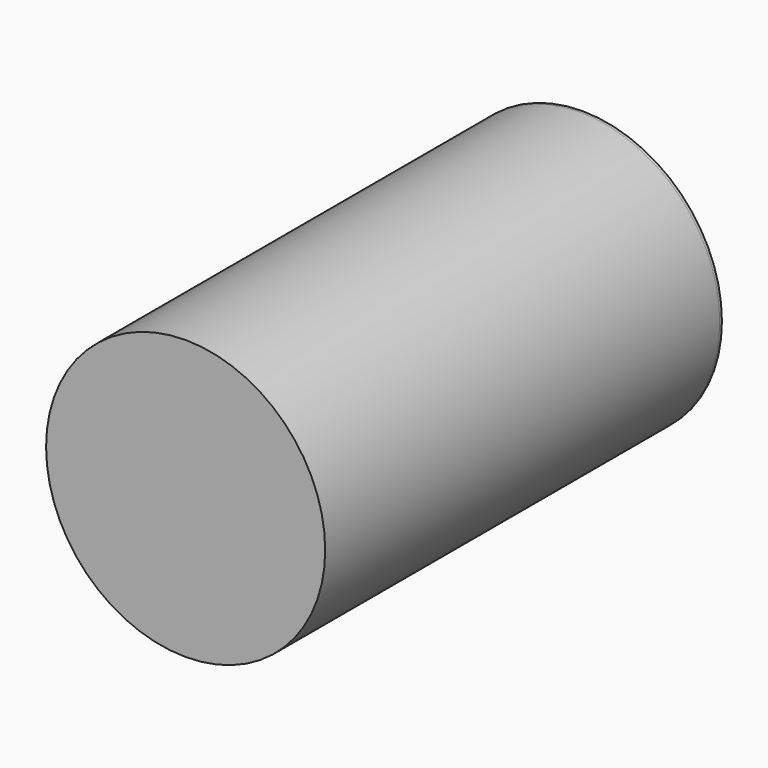
from build123d import *

# Parameters (mm, degrees)
F0_R     = 163.5125
F0_R_2   = 160.3375
F1_DEPTH = 574.675
F2_R     = 163.5125
F3_DEPTH = 3.175
F4_R     = 163.5125
F5_DEPTH = 3.175


with BuildPart() as f1:
    # F0 (on Front) → F1 (new body)
    with BuildSketch(Plane.XZ):
        Circle(F0_R)
        Circle(F0_R_2, mode=Mode.SUBTRACT)
    extrude(amount=F1_DEPTH)

    # F2 (on face) → F3 (join)
    with BuildSketch(Plane.XZ.offset(574.675)):
        Circle(F2_R)
    extrude(amount=F3_DEPTH)

    # F4 (on face) → F5 (join)
    with BuildSketch(Plane(origin=(0, 0, 0), x_dir=(-1, 0, 0), z_dir=(0, 1, 0))):
        Circle(F4_R)
    extrude(amount=F5_DEPTH)


solid = f1.part
